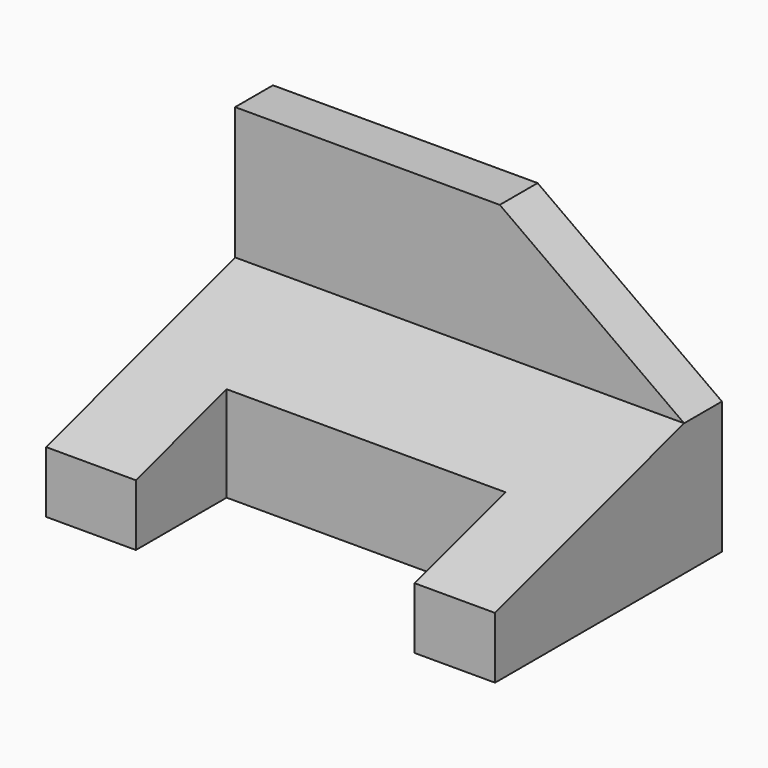
from build123d import *

# Parameters (mm, degrees)
F1_DEPTH   = 95
F3_DEPTH   = 10.001
F4_W       = 59
F4_H       = 24
F1_FACE2_W = 95
F1_FACE2_H = 52.2015325446
F5_DEPTH   = 56.001


with BuildPart() as f1:
    # F0 (on Right) → F1 (new body)
    with BuildSketch(Plane.YZ):
        Polygon((-60, 0), (0, 0), (0, 56), (-10, 56), (-10, 28), (-60, 13), align=None)
    extrude(amount=F1_DEPTH)

    # F2 (on face) → F3 (cut, through all)
    with BuildSketch(Plane.XZ.offset(10)):
        Polygon((95, 56), (56, 56), (95, 28), align=None)
    extrude(amount=-F3_DEPTH, mode=Mode.SUBTRACT)

    # F4 (on face) + F1_face2 (on face) → F5 (cut, through all)
    with BuildSketch(Plane(origin=(0, 0, 0), x_dir=(1, 0, 0), z_dir=(0, 0, -1))):
        with Locations((48.5, 48)):
            Rectangle(F4_W, F4_H)
    with BuildSketch(Plane(origin=(47.5, -35, 20.5), x_dir=(1, 0, 0), z_dir=(0, -0.2873478856, 0.9578262852))):
        Rectangle(F1_FACE2_W, F1_FACE2_H)
    extrude(amount=-F5_DEPTH, dir=(0, 0, -1), mode=Mode.SUBTRACT)


solid = f1.part
